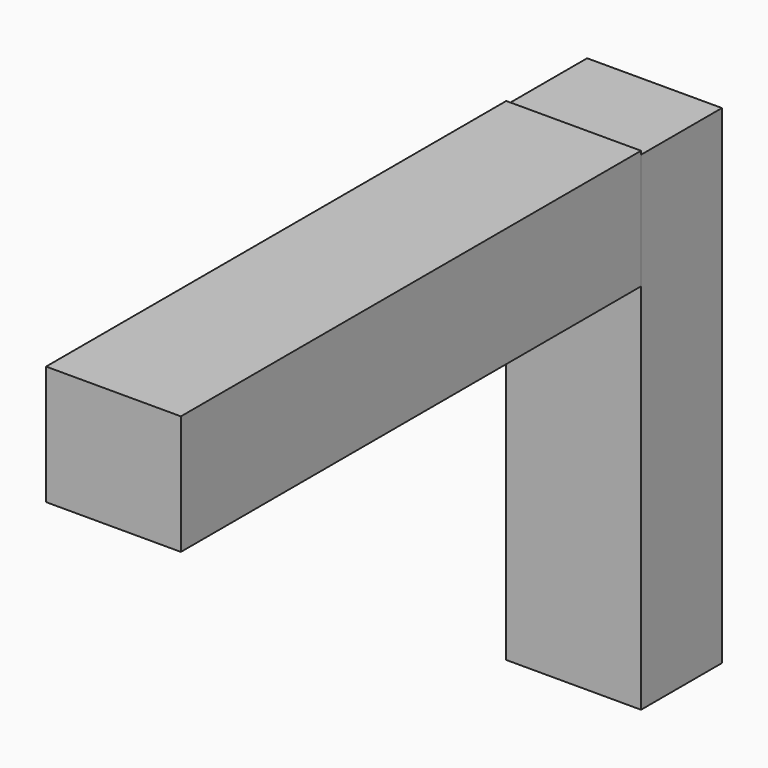
from build123d import *

# Parameters (mm, degrees)
F0_W     = 30
F0_H     = 145
F1_DEPTH = 40
F2_W     = 170.683083
F2_H     = 35.415508
F3_DEPTH = 40


with BuildPart() as f1:
    # F0 (on Right) → F1 (new body)
    with BuildSketch(Plane.YZ):
        Rectangle(F0_W, F0_H)
    extrude(amount=F1_DEPTH)


with BuildPart() as f3:
    # F2 (on Right) → F3 (new body)
    with BuildSketch(Plane.YZ):
        with Locations((-100.343944, 55.825818)):
            Rectangle(F2_W, F2_H)
    extrude(amount=F3_DEPTH)


solid = Compound([f1.part, f3.part])
